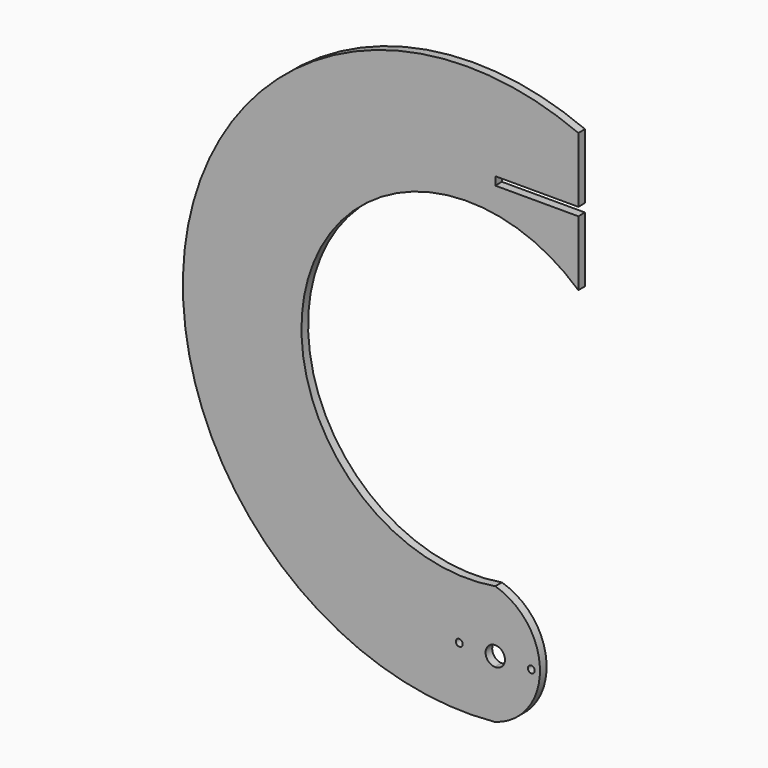
from build123d import *

# Parameters (mm, degrees)
F0_R     = 1.25
F1_DEPTH = 3


with BuildPart() as f1:
    # F0 (on Front) → F1 (new body)
    with BuildSketch(Plane.XZ):
        with BuildLine():
            ThreePointArc((30, 176.096417), (-111.636727, 96.934997), (-0.170371, -20.974903))
            ThreePointArc((-0.170371, -20.974903), (16.144124, 0.555657), (0, 22.214259))
            ThreePointArc((0, 22.214259), (-67.64439, 98.022109), (30, 126.096417))
            Line((30, 126.096417), (30, 149.596417))
            Line((30, 149.596417), (0, 149.596417))
            Line((0, 149.596417), (0, 152.596417))
            Line((0, 152.596417), (30, 152.596417))
            Line((30, 152.596417), (30, 176.096417))
        make_face()
        with Locations((-13, 0)):
            Circle(F0_R, mode=Mode.SUBTRACT)
        with BuildLine():
            ThreePointArc((-0.170371, 3.495851), (2.413887, 2.534393), (3.5, 0))
            ThreePointArc((3.5, 0), (2.413887, -2.534393), (-0.170371, -3.495851))
            ThreePointArc((-0.170371, -3.495851), (-3.5, 0), (-0.170371, 3.495851))
        make_face(mode=Mode.SUBTRACT)
        with Locations((13, 0)):
            Circle(F0_R, mode=Mode.SUBTRACT)
    extrude(amount=F1_DEPTH)


solid = f1.part
